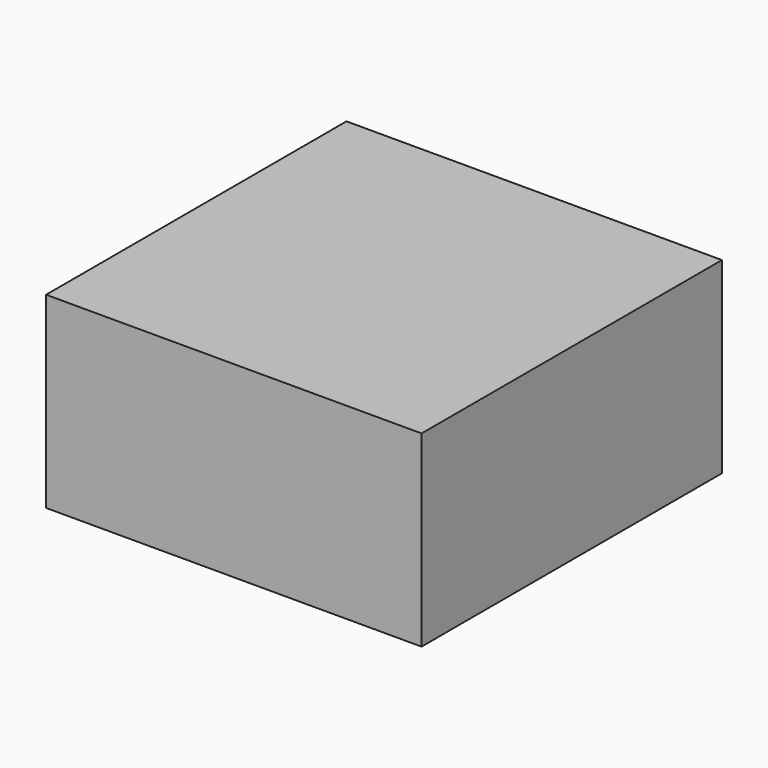
from build123d import *

# Parameters (mm, degrees)
F0_W     = 50.8
F0_H     = 25.4
F1_DEPTH = 50.8
F2_R     = 6.35
F3_DEPTH = 6.35


with BuildPart() as f1:
    # F0 (on Front) → F1 (new body)
    with BuildSketch(Plane.XZ):
        with Locations((25.4, 12.7)):
            Rectangle(F0_W, F0_H)
    extrude(amount=F1_DEPTH)

    # F2 (on face) → F3 (cut)
    with BuildSketch(Plane(origin=(0, 0, 0), x_dir=(1, 0, 0), z_dir=(0, 0, -1))):
        with Locations((12.7, 38.1)):
            Circle(F2_R)
        with Locations((12.7, 12.7)):
            Circle(F2_R)
        with Locations((38.1, 12.7)):
            Circle(F2_R)
        with Locations((38.1, 38.1)):
            Circle(F2_R)
    extrude(amount=-F3_DEPTH, mode=Mode.SUBTRACT)


solid = f1.part
